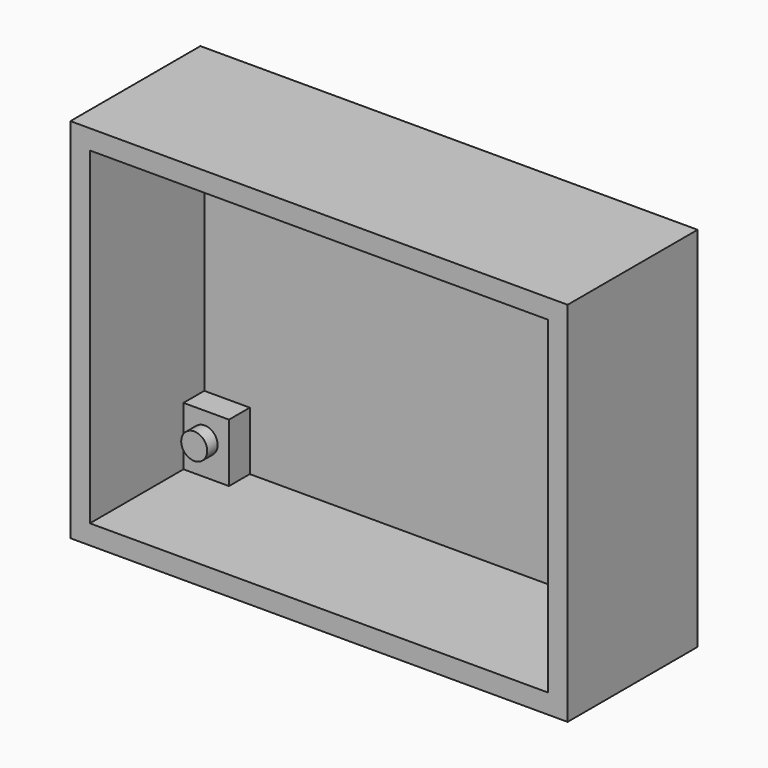
from build123d import *

# Parameters (mm, degrees)
F0_W     = 76.5
F0_H     = 56.5
F1_DEPTH = 25
F2_DEPTH = 3
F0_W_2   = 7
F0_H_2   = 9
F0_R     = 2
F3_DEPTH = 7
F4_DEPTH = 9
F5_DEPTH = 9
F6_DEPTH = 9


with BuildPart() as f1:
    # F0 (on Front) → F1 (new body)
    with BuildSketch(Plane.XZ):
        with Locations((12.333626, 4.463955)):
            Rectangle(F0_W, F0_H)
        Polygon((-22.916374, 20.713955), (-22.916374, 29.713955), (-15.916374, 29.713955), (12.333626, 29.713955), (40.583626, 29.713955), (47.583626, 29.713955), (47.583626, 20.713955), (47.583626, 4.463955), (47.583626, -11.786045), (47.583626, -20.786045), (40.583626, -20.786045), (12.333626, -20.786045), (-15.916374, -20.786045), (-22.916374, -20.786045), (-22.916374, -11.786045), (-22.916374, 4.463955), align=None, mode=Mode.SUBTRACT)
    extrude(amount=F1_DEPTH)

    # F0 (on Front) → F2 (join)
    with BuildSketch(Plane.XZ):
        Polygon((12.333626, 29.713955), (-15.916374, 29.713955), (-15.916374, 20.713955), (-22.916374, 20.713955), (-22.916374, 4.463955), (12.333626, 4.463955), align=None)
        Polygon((40.583626, 29.713955), (12.333626, 29.713955), (12.333626, 4.463955), (47.583626, 4.463955), (47.583626, 20.713955), (40.583626, 20.713955), align=None)
        Polygon((47.583626, 4.463955), (12.333626, 4.463955), (12.333626, -20.786045), (40.583626, -20.786045), (40.583626, -11.786045), (47.583626, -11.786045), align=None)
        Polygon((12.333626, 4.463955), (-22.916374, 4.463955), (-22.916374, -11.786045), (-15.916374, -11.786045), (-15.916374, -20.786045), (12.333626, -20.786045), align=None)
    extrude(amount=F2_DEPTH)

    # F0 (on Front) → F3 (join)
    with BuildSketch(Plane.XZ):
        with Locations((-19.416374, 25.213955)):
            Rectangle(F0_W_2, F0_H_2)
        with Locations((-19.666374, 24.713955)):
            Circle(F0_R, mode=Mode.SUBTRACT)
        with Locations((44.083626, 25.213955)):
            Rectangle(F0_W_2, F0_H_2)
        with Locations((44.333626, 24.713955)):
            Circle(F0_R, mode=Mode.SUBTRACT)
        with Locations((44.083626, -16.286045)):
            Rectangle(F0_W_2, F0_H_2)
        with Locations((44.333626, -15.786045)):
            Circle(F0_R, mode=Mode.SUBTRACT)
        with Locations((-19.416374, -16.286045)):
            Rectangle(F0_W_2, F0_H_2)
        with Locations((-19.666374, -15.786045)):
            Circle(F0_R, mode=Mode.SUBTRACT)
    extrude(amount=F3_DEPTH)

    # F0 (on Front) → F4 (join)
    with BuildSketch(Plane.XZ):
        with Locations((-19.666374, 24.713955)):
            Circle(F0_R)
        with Locations((44.333626, -15.786045)):
            Circle(F0_R)
    extrude(amount=F4_DEPTH)

    # F0 (on Front) → F5 (join)
    with BuildSketch(Plane.XZ):
        with Locations((44.333626, 24.713955)):
            Circle(F0_R)
    extrude(amount=F5_DEPTH)

    # F0 (on Front) → F6 (join)
    with BuildSketch(Plane.XZ):
        with Locations((-19.666374, -15.786045)):
            Circle(F0_R)
    extrude(amount=F6_DEPTH)


solid = f1.part
